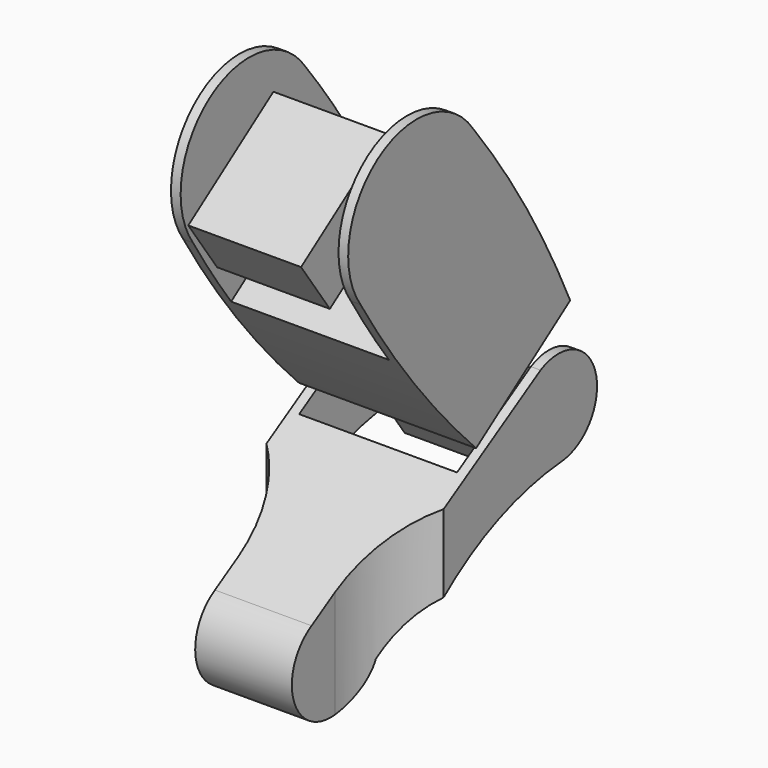
from build123d import *

# Parameters (mm, degrees)
PAD_DEPTH               = 55
SKETCH001_W             = 49
SKETCH001_H             = 60.9
POCKET_DEPTH            = 500
POCKET001_DEPTH         = 500
PAD003_DEPTH            = 55
SKETCH006_W             = 49
SKETCH006_H             = 53.15
POCKET002_DEPTH         = 100
BODY002_PLACEMENT_ANGLE = 35
SKETCH007_W             = 40.3
SKETCH007_H             = 19.5
SKETCH007_R             = 2.9
PAD004_DEPTH            = 35
SKETCH008_R             = 2.9
PAD005_DEPTH            = 43
BODY003_PLACEMENT_ANGLE = 35
SKETCH009_W             = 19.5
SKETCH009_H             = 40.3
SKETCH009_R             = 2.9
PAD006_DEPTH            = 35
SKETCH010_R             = 2.9
PAD007_DEPTH            = 43
BODY004_PLACEMENT_ANGLE = 35


with BuildPart() as lowerlegbody:
    # Sketch → Pad (new body)
    with BuildSketch(Plane.YZ):
        with BuildLine():
            ThreePointArc((28.980657, 15.850683), (42.584206, 34.802551), (21.20392, 44.135996))
            Line((-52.001908, 0), (21.20392, 44.135996))
            ThreePointArc((-52.001908, 0), (-53.920439, -24.881725), (-30.209248, -17.099671))
            ThreePointArc((28.980657, 15.850683), (-4.124344, 5.680733), (-30.209248, -17.099671))
        make_face()
    extrude(amount=PAD_DEPTH)

    # Sketch001 → Pocket (cut)
    with BuildSketch(Plane(origin=(27.5, 23, -50), x_dir=(1, 0, 0), z_dir=(0, 0, 1))):
        Rectangle(SKETCH001_W, SKETCH001_H)
    extrude(amount=POCKET_DEPTH, mode=Mode.SUBTRACT)

    # Sketch002 → Pocket001 (cut)
    with BuildSketch(Plane(origin=(27.5, -35, -50), x_dir=(1, 0, 0), z_dir=(0, 0, 1))):
        with BuildLine():
            Line((-49.999941, -8.209968), (-49.999941, -38.209968))
            Line((-49.999941, -38.209968), (-15, -38.209968))
            Line((-15, -38.209968), (-15, -7.838993))
            ThreePointArc((-15, -7.838993), (-25.381364, 16.670931), (-49.999941, 26.791938))
            Line((-49.999941, 26.791938), (-49.999941, -8.209968))
        make_face()
        with BuildLine():
            Line((15, -7.838993), (15, -38.220366))
            Line((15, -38.220366), (49.997922, -38.220366))
            Line((49.997922, -38.220366), (49.997922, -8.220366))
            Line((49.99995, 26.779634), (49.997922, -8.220366))
            ThreePointArc((49.99995, 26.779634), (25.385111, 16.663555), (15, -7.838993))
        make_face()
    extrude(amount=POCKET001_DEPTH, mode=Mode.SUBTRACT)


with BuildPart() as lowerlegbody_1:
    # Body placement: moved
    add(lowerlegbody.part.moved(Location((-27.5, 0, 0))))


with BuildPart() as upperlegbody:
    # Sketch005 → Pad003 (new body)
    with BuildSketch(Plane.YZ):
        with BuildLine():
            ThreePointArc((26.575, 99.999999), (0, 126.574999), (-26.575, 99.999998))
            ThreePointArc((-26.575, 99.999998), (-26.773139, 63.508395), (-22.818951, 27.231119))
            Line((-22.818951, 27.231119), (21.743508, 27.231119))
            ThreePointArc((21.743508, 27.231119), (26.276787, 63.474965), (26.575, 99.999999))
        make_face()
    extrude(amount=PAD003_DEPTH)

    # Sketch006 → Pocket002 (cut)
    with BuildSketch(Plane(origin=(3, 50, 0), x_dir=(1, 0, 0), z_dir=(0, -1, 0))):
        with Locations((24.5, 100)):
            Rectangle(SKETCH006_W, SKETCH006_H)
    extrude(amount=POCKET002_DEPTH, mode=Mode.SUBTRACT)


with BuildPart() as upperlegbody_1:
    # Body002 placement: moved
    add(upperlegbody.part.moved(Location((-27.5, 30.5, 23.75))).rotate(Axis((-27.5, 30.5, 23.75), (1, 0, 0)), BODY002_PLACEMENT_ANGLE))


with BuildPart() as obj1:
    # Sketch007 → Pad004 (new body)
    with BuildSketch(Plane.YZ):
        with Locations((-6.425, 100)):
            Rectangle(SKETCH007_W, SKETCH007_H)
        with Locations((0, 100)):
            Circle(SKETCH007_R, mode=Mode.SUBTRACT)
    extrude(amount=PAD004_DEPTH)

    # Sketch008 → Pad005 (join)
    with BuildSketch(Plane.YZ):
        with Locations((0, 100)):
            Circle(SKETCH008_R)
    extrude(amount=PAD005_DEPTH)


with BuildPart() as obj1_1:
    # Body003 placement: moved
    add(obj1.part.moved(Location((-21.5, 30.5, 23.75))).rotate(Axis((-21.5, 30.5, 23.75), (1, 0, 0)), BODY003_PLACEMENT_ANGLE))


with BuildPart() as obj2:
    # Sketch009 → Pad006 (new body)
    with BuildSketch(Plane.YZ):
        with Locations((0, 7.010211)):
            Rectangle(SKETCH009_W, SKETCH009_H)
        with Locations((0, 0.585211)):
            Circle(SKETCH009_R, mode=Mode.SUBTRACT)
    extrude(amount=PAD006_DEPTH)

    # Sketch010 → Pad007 (join)
    with BuildSketch(Plane.YZ):
        with Locations((0, 0.59)):
            Circle(SKETCH010_R)
    extrude(amount=PAD007_DEPTH)


with BuildPart() as obj2_1:
    # Body004 placement: moved
    add(obj2.part.moved(Location((-21.75, 30.5, 23.75))).rotate(Axis((-21.75, 30.5, 23.75), (1, 0, 0)), BODY004_PLACEMENT_ANGLE))


solid = Compound([lowerlegbody_1.part, upperlegbody_1.part, obj1_1.part, obj2_1.part])
